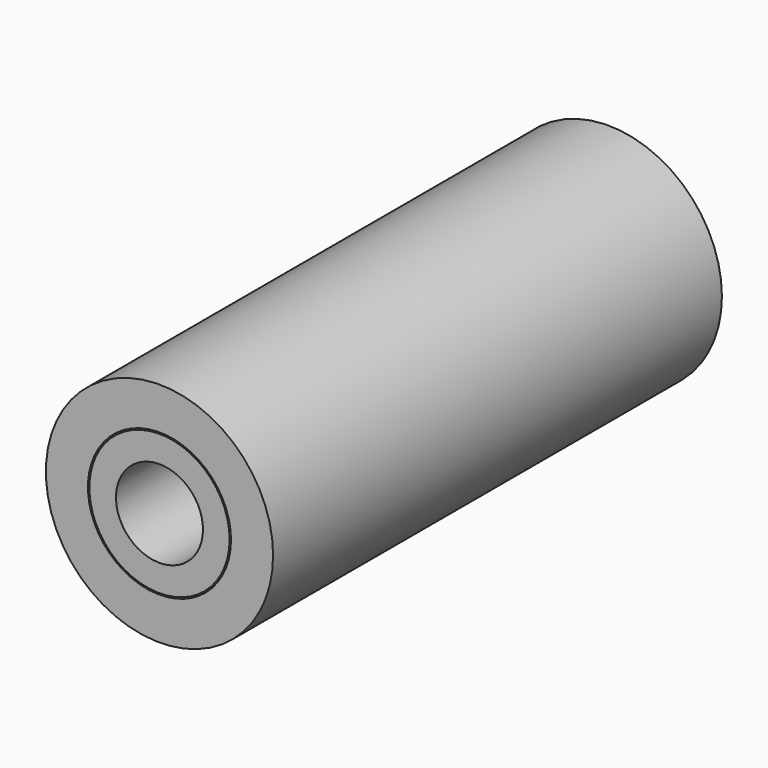
from build123d import *


with BuildPart() as f1:
    # F0 (on Top) → F1 (revolve)
    with BuildSketch(Plane.XY):
        Polygon((51.435, 254), (32.385, 254), (32.385, 203.2), (45.085, 203.2), (45.085, 190.5), (32.385, 190.5), (32.385, 63.5), (45.085, 63.5), (45.085, 50.8), (32.385, 50.8), (32.385, 0), (51.435, 0), align=None)
    revolve(axis=Axis((0, 127, 0), (0, 1, 0)))


with BuildPart() as f3:
    # F2 (on Top) → F3 (revolve)
    with BuildSketch(Plane.XY):
        Polygon((31.75, 254), (22.2885, 254), (22.2885, 127), (22.2885, 0), (31.75, 0), (31.75, 51.435), (44.45, 51.435), (44.45, 62.865), (31.75, 62.865), (31.75, 127), (31.75, 191.135), (44.45, 191.135), (44.45, 202.565), (31.75, 202.565), align=None)
    revolve(axis=Axis((0, 127, 0), (0, 1, 0)))


with BuildPart() as f5:
    # F4 (on Top) → F5 (revolve)
    with BuildSketch(Plane.XY):
        Polygon((31.75, 254), (19.685, 254), (19.685, 127), (19.685, 0), (31.75, 0), (31.75, 51.435), (44.45, 51.435), (44.45, 62.865), (31.75, 62.865), (31.75, 127), (31.75, 191.135), (44.45, 191.135), (44.45, 202.565), (31.75, 202.565), align=None)
    revolve(axis=Axis((0, 127, 0), (0, 1, 0)))


solid = Compound([f1.part, f3.part, f5.part])
